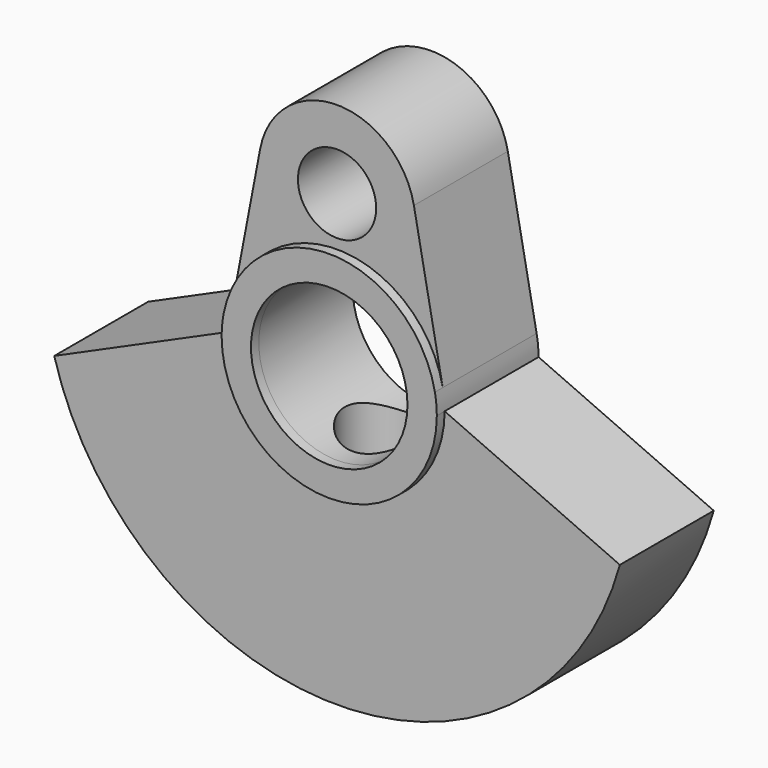
from build123d import *

# Parameters (mm, degrees)
F0_R     = 2
F1_DEPTH = 6
F2_R     = 4
F3_DEPTH = 25
F4_R     = 4
F5_DEPTH = 0.5
F7_R     = 2
F8_DEPTH = 12.535898485


with BuildPart() as f1:
    # F0 (on Front) → F1 (new body)
    with BuildSketch(Plane.XZ):
        with BuildLine():
            Line((-5.5, 0), (-14.4568322948, -4))
            ThreePointArc((-14.4568322948, -4), (0, -15), (14.4568322948, -4))
            Line((14.4568322948, -4), (5.5, 0))
            ThreePointArc((5.5, 0), (5.4755595256, 0.5179265218), (5.4024553156, 1.03125))
            Line((5.4024553156, 1.03125), (3.9290584114, 8.75))
            ThreePointArc((3.9290584114, 8.75), (0, 12), (-3.9290584114, 8.75))
            Line((-3.9290584114, 8.75), (-5.4024553156, 1.03125))
            ThreePointArc((-5.4024553156, 1.03125), (-5.4755595256, 0.5179265218), (-5.5, 0))
        make_face()
        with Locations((0, 8)):
            Circle(F0_R, mode=Mode.SUBTRACT)
    extrude(amount=F1_DEPTH)

    # F2 (on face) → F3 (cut)
    with BuildSketch(Plane.XZ.offset(6)):
        Circle(F2_R)
    extrude(amount=-F3_DEPTH, mode=Mode.SUBTRACT)

    # F4 (on face) → F5 (join)
    with BuildSketch(Plane.XZ.offset(6)):
        with BuildLine():
            ThreePointArc((-5.5, 0), (0, -5.5), (5.5, 0))
            ThreePointArc((5.5, 0), (5.4755595256, 0.5179265218), (5.4024553156, 1.03125))
            ThreePointArc((5.4024553156, 1.03125), (0, 5.5), (-5.4024553156, 1.03125))
            ThreePointArc((-5.4024553156, 1.03125), (-5.4755595256, 0.5179265218), (-5.5, 0))
        make_face()
        Circle(F4_R, mode=Mode.SUBTRACT)
    extrude(amount=F5_DEPTH)

    # F7 (on offset) → F8 (cut, up to face)
    with BuildSketch(Plane.XY.offset(-15)):
        with Locations((0, -3)):
            Circle(F7_R)
    extrude(amount=F8_DEPTH, mode=Mode.SUBTRACT)


solid = f1.part
